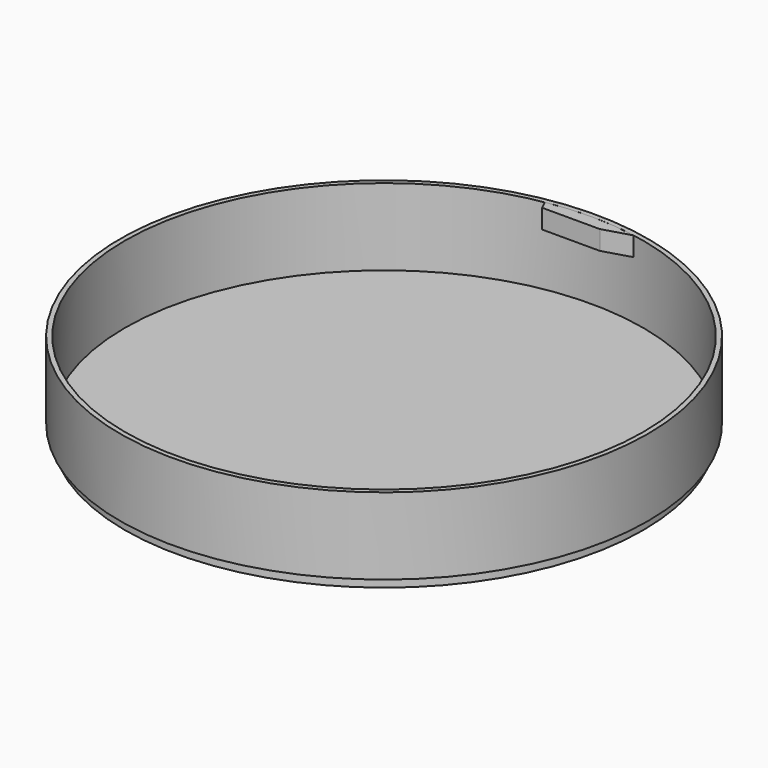
from build123d import *

# Parameters (mm, degrees)
F0_R     = 27.5
F0_R_2   = 27
F1_DEPTH = 8
F2_DEPTH = 1
F4_DEPTH = 2


with BuildPart() as f1:
    # F0 (on Top) → F1 (new body)
    with BuildSketch(Plane.XY):
        Circle(F0_R)
        Circle(F0_R_2, mode=Mode.SUBTRACT)
    extrude(amount=F1_DEPTH)


with BuildPart() as f2:
    # F0 (on Top) → F2 (new body)
    with BuildSketch(Plane.XY):
        Circle(F0_R_2)
    extrude(amount=-F2_DEPTH)


with BuildPart() as f4:
    # F3 (on face) → F4 (new body)
    with BuildSketch(Plane.XY.offset(8)):
        with BuildLine():
            ThreePointArc((4.770946, 26.57514), (0.113249, 26.999762), (-4.547846, 26.614227))
            Line((-4.547846, 26.614227), (-4.103008, 25.718617))
            Line((-4.103008, 25.718617), (1.896992, 25.718617))
            Line((1.896992, 25.718617), (4.770946, 26.57514))
        make_face()
    extrude(amount=-F4_DEPTH)


solid = Compound([f1.part, f2.part, f4.part])
